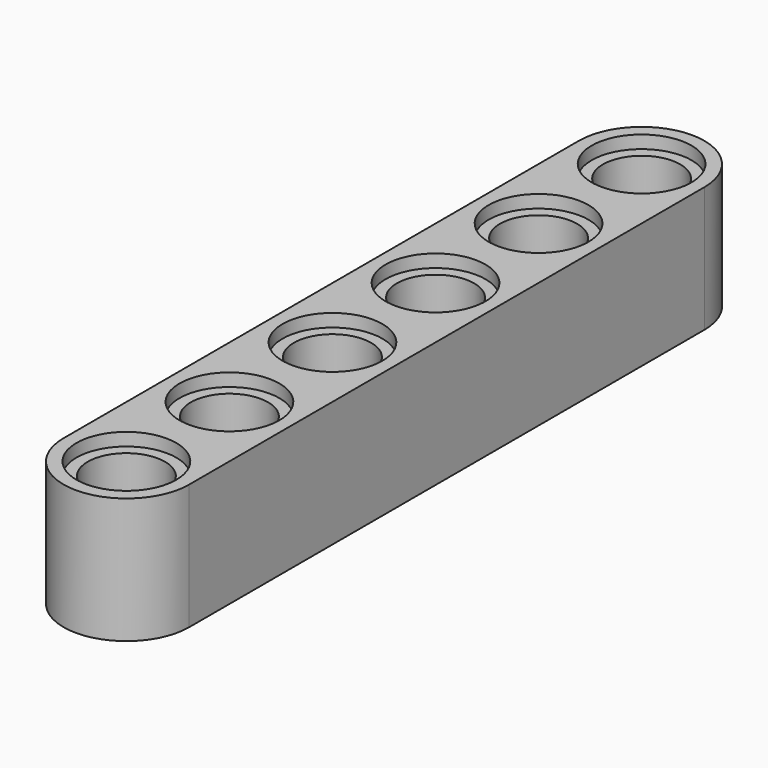
from build123d import *

# Parameters (mm, degrees)
PAD014_DEPTH                       = 3.9
SKETCH022_R                        = 2.4
POCKET007_DEPTH                    = 7.8
LINEARPATTERN007_COUNT             = 6
LINEARPATTERN007_PITCH             = 8
SKETCH023_R                        = 3.1
POCKET008_DEPTH                    = 0.8
SKETCH023_LINEARPATTERN008_2_R     = 3.1
POCKET008_LINEARPATTERN008_2_DEPTH = 0.8
SKETCH023_LINEARPATTERN008_3_R     = 3.1
POCKET008_LINEARPATTERN008_3_DEPTH = 0.8
SKETCH023_LINEARPATTERN008_4_R     = 3.1
POCKET008_LINEARPATTERN008_4_DEPTH = 0.8
SKETCH023_LINEARPATTERN008_5_R     = 3.1
POCKET008_LINEARPATTERN008_5_DEPTH = 0.8
SKETCH023_LINEARPATTERN008_6_R     = 3.1
POCKET008_LINEARPATTERN008_6_DEPTH = 0.8
BODY005_PLACEMENT_ANGLE            = 90


with BuildPart() as part:
    # Sketch021 → Pad014 (new body, symmetric)
    with BuildSketch(Plane.XY):
        with BuildLine():
            Line((-20, 3.9), (20, 3.9))
            ThreePointArc((20, -3.9), (23.9, 0), (20, 3.9))
            Line((20, -3.9), (-20, -3.9))
            ThreePointArc((-20, 3.9), (-23.9, 0), (-20, -3.9))
        make_face()
    extrude(amount=PAD014_DEPTH, both=True)

    # Sketch022 (on Face6 of Pad014) → Pocket007 (cut)
    with BuildSketch(Plane.XY.offset(3.9)):
        with Locations((20, 0)):
            Circle(SKETCH022_R)
    pocket007 = extrude(amount=-POCKET007_DEPTH, mode=Mode.SUBTRACT)

    # LinearPattern007: Pocket007 ×6
    with Locations(*[(-i * LINEARPATTERN007_PITCH, 0, 0) for i in range(1, LINEARPATTERN007_COUNT)]):
        add(pocket007, mode=Mode.SUBTRACT)

    # Sketch023 (on Face5 of LinearPattern007) → Pocket008 (cut)
    with BuildSketch(Plane.XY.offset(3.9)):
        with Locations((20, 0)):
            Circle(SKETCH023_R)
    pocket008 = extrude(amount=-POCKET008_DEPTH, mode=Mode.SUBTRACT)

    # Sketch023 LinearPattern008 2 → Pocket008 LinearPattern008 2 (cut)
    with BuildSketch(Plane(origin=(-8, 0, 3.9), x_dir=(1, 0, 0), z_dir=(0, 0, 1))):
        with Locations((20, 0)):
            Circle(SKETCH023_LINEARPATTERN008_2_R)
    pocket008_linearpattern008_2 = extrude(amount=-POCKET008_LINEARPATTERN008_2_DEPTH, mode=Mode.SUBTRACT)

    # Sketch023 LinearPattern008 3 → Pocket008 LinearPattern008 3 (cut)
    with BuildSketch(Plane(origin=(-16, 0, 3.9), x_dir=(1, 0, 0), z_dir=(0, 0, 1))):
        with Locations((20, 0)):
            Circle(SKETCH023_LINEARPATTERN008_3_R)
    pocket008_linearpattern008_3 = extrude(amount=-POCKET008_LINEARPATTERN008_3_DEPTH, mode=Mode.SUBTRACT)

    # Sketch023 LinearPattern008 4 → Pocket008 LinearPattern008 4 (cut)
    with BuildSketch(Plane(origin=(-24, 0, 3.9), x_dir=(1, 0, 0), z_dir=(0, 0, 1))):
        with Locations((20, 0)):
            Circle(SKETCH023_LINEARPATTERN008_4_R)
    pocket008_linearpattern008_4 = extrude(amount=-POCKET008_LINEARPATTERN008_4_DEPTH, mode=Mode.SUBTRACT)

    # Sketch023 LinearPattern008 5 → Pocket008 LinearPattern008 5 (cut)
    with BuildSketch(Plane(origin=(-32, 0, 3.9), x_dir=(1, 0, 0), z_dir=(0, 0, 1))):
        with Locations((20, 0)):
            Circle(SKETCH023_LINEARPATTERN008_5_R)
    pocket008_linearpattern008_5 = extrude(amount=-POCKET008_LINEARPATTERN008_5_DEPTH, mode=Mode.SUBTRACT)

    # Sketch023 LinearPattern008 6 → Pocket008 LinearPattern008 6 (cut)
    with BuildSketch(Plane(origin=(-40, 0, 3.9), x_dir=(1, 0, 0), z_dir=(0, 0, 1))):
        with Locations((20, 0)):
            Circle(SKETCH023_LINEARPATTERN008_6_R)
    pocket008_linearpattern008_6 = extrude(amount=-POCKET008_LINEARPATTERN008_6_DEPTH, mode=Mode.SUBTRACT)

    # Mirrored003: Pocket008, Pocket008 LinearPattern008 2, Pocket008 LinearPattern008 3, Pocket008 LinearPattern008 4, Pocket008 LinearPattern008 5, Pocket008 LinearPattern008 6 across XY
    add(pocket008.mirror(Plane.XY), mode=Mode.SUBTRACT)
    add(pocket008_linearpattern008_2.mirror(Plane.XY), mode=Mode.SUBTRACT)
    add(pocket008_linearpattern008_3.mirror(Plane.XY), mode=Mode.SUBTRACT)
    add(pocket008_linearpattern008_4.mirror(Plane.XY), mode=Mode.SUBTRACT)
    add(pocket008_linearpattern008_5.mirror(Plane.XY), mode=Mode.SUBTRACT)
    add(pocket008_linearpattern008_6.mirror(Plane.XY), mode=Mode.SUBTRACT)


with BuildPart() as part_1:
    # Body005 placement: moved
    add(part.part.moved(Location((0, 20, 20))).rotate(Axis((0, 20, 20), (0, 0, 1)), BODY005_PLACEMENT_ANGLE))


solid = part_1.part
